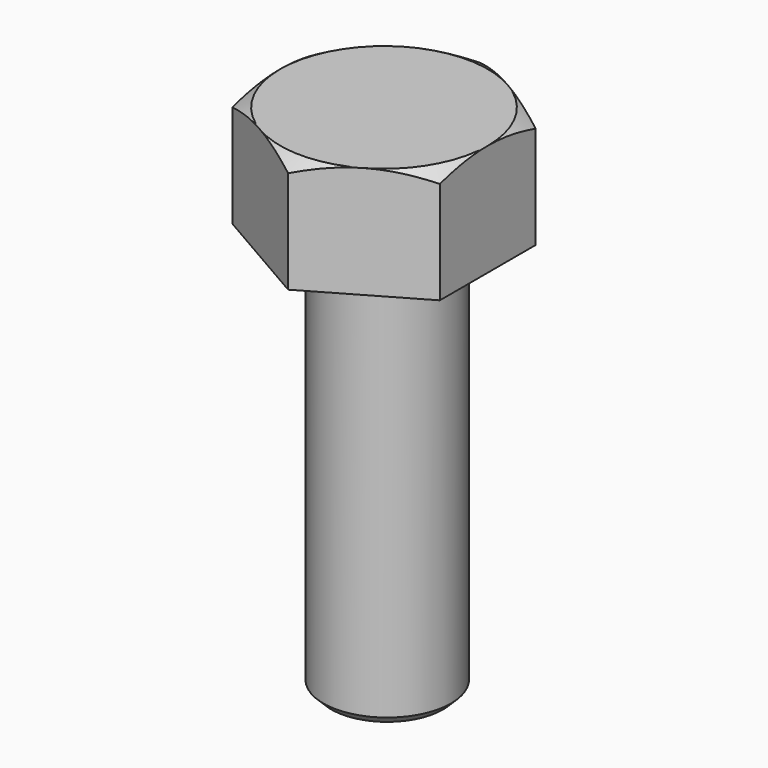
from build123d import *

# Parameters (mm, degrees)
F0_R     = 4
F1_DEPTH = 7
F2_R     = 4
F3_DEPTH = 25
F4_SIZE  = 0.5


with BuildPart() as f1:
    # F0 (on Top) → F1 (new body)
    with BuildSketch(Plane.XY):
        Polygon((0, -7.505553), (6.5, -3.752777), (6.5, 3.752777), (0, 7.505553), (-6.5, 3.752777), (-6.5, -3.752777), align=None)
        Circle(F0_R, mode=Mode.SUBTRACT)
        Circle(F0_R)
    extrude(amount=F1_DEPTH)

    # F2 (on Top) → F3 (join)
    with BuildSketch(Plane.XY):
        with Locations((0.200147, 0)):
            Circle(F2_R)
        with Locations((0.200147, 0)):
            Circle(F2_R)
    extrude(amount=-F3_DEPTH)

    # F4
    f4_edges = [f1.edges().sort_by_distance(p)[0] for p in [
        (4.200147, 0, -12.5),
        (-3.799853, 0, 0),
        (-3.799853, 0, -25),
    ]]
    chamfer(f4_edges, length=F4_SIZE)

    # F5 (on Front) → F6 (revolve, cut)
    with BuildSketch(Plane.XZ):
        Polygon((13.280644, 7), (6.5, 7), (13.280644, 3.085193), align=None)
    revolve(axis=Axis((0, 0, 3.977945), (0, 0, -1)), mode=Mode.SUBTRACT)


solid = f1.part
